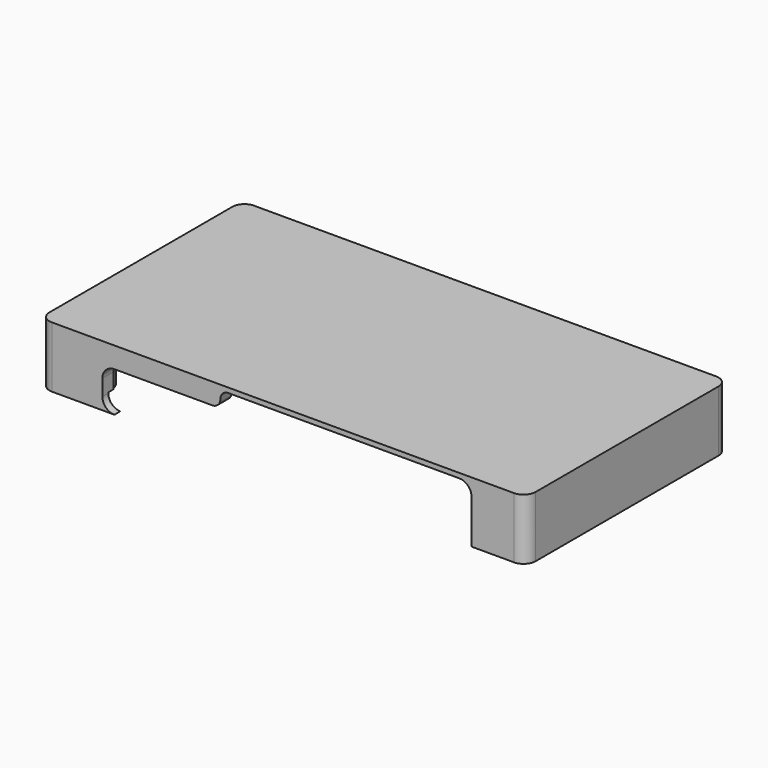
from build123d import *

# Parameters (mm, degrees)
PAD006_DEPTH    = 3.2
SKETCH009_W     = 114.2
SKETCH009_H     = 56
PAD007_DEPTH    = 10
PAD008_DEPTH    = 2
POCKET002_DEPTH = 5
POCKET003_DEPTH = 5
POCKET004_DEPTH = 3.5
SKETCH014_R     = 1.5
PAD009_DEPTH    = 10
SKETCH015_R     = 3.5
SKETCH015_R_2   = 1.7
PAD010_DEPTH    = 3.1


with BuildPart() as part:
    # Sketch008 → Pad006 (new body)
    with BuildSketch(Plane.XY):
        with BuildLine():
            Line((56.86, 33.5), (-58.34, 33.5))
            ThreePointArc((-58.34, 33.5), (-60.46132, 32.62132), (-61.34, 30.5))
            Line((-61.34, 30.5), (-61.34, -26.5))
            ThreePointArc((-61.34, -26.5), (-60.46132, -28.62132), (-58.34, -29.5))
            Line((-58.34, -29.5), (56.86, -29.5))
            ThreePointArc((56.86, -29.5), (58.98132, -28.62132), (59.86, -26.5))
            Line((59.86, -26.5), (59.86, 30.5))
            ThreePointArc((59.86, 30.5), (58.98132, 32.62132), (56.86, 33.5))
        make_face()
        with BuildLine():
            Line((56.26, 31.65), (-57.74, 31.65))
            ThreePointArc((-57.74, 31.65), (-58.977437, 31.137437), (-59.49, 29.9))
            Line((-59.49, 29.9), (-59.49, -25.9))
            ThreePointArc((-59.49, -25.9), (-58.977437, -27.137437), (-57.74, -27.65))
            Line((-57.74, -27.65), (56.26, -27.65))
            ThreePointArc((56.26, -27.65), (57.497437, -27.137437), (58.01, -25.9))
            Line((58.01, -25.9), (58.01, 29.9))
            ThreePointArc((58.01, 29.9), (57.497437, 31.137437), (56.26, 31.65))
        make_face(mode=Mode.SUBTRACT)
    extrude(amount=PAD006_DEPTH)

    # Sketch009 (on Face18 of Pad006) → Pad007 (join)
    with BuildSketch(Plane.XY.offset(3.2)):
        with BuildLine():
            Line((-61.34, 30.5), (-61.34, -26.5))
            ThreePointArc((-61.34, -26.5), (-60.46132, -28.62132), (-58.34, -29.5))
            Line((-58.34, -29.5), (56.86, -29.5))
            ThreePointArc((56.86, -29.5), (58.98132, -28.62132), (59.86, -26.5))
            Line((59.86, -26.5), (59.86, 30.5))
            ThreePointArc((59.86, 30.5), (58.98132, 32.62132), (56.86, 33.5))
            Line((56.86, 33.5), (-58.34, 33.5))
            ThreePointArc((-58.34, 33.5), (-60.46132, 32.62132), (-61.34, 30.5))
        make_face()
        with Locations((-0.74, 2)):
            Rectangle(SKETCH009_W, SKETCH009_H, mode=Mode.SUBTRACT)
    extrude(amount=PAD007_DEPTH)

    # Sketch010 (on Face12 of Pad007) → Pad008 (join)
    with BuildSketch(Plane.XY.offset(13.2)):
        with BuildLine():
            Line((-61.34, 30.5), (-61.34, -26.5))
            ThreePointArc((-61.34, -26.5), (-60.46132, -28.62132), (-58.34, -29.5))
            Line((-58.34, -29.5), (56.86, -29.5))
            ThreePointArc((56.86, -29.5), (58.98132, -28.62132), (59.86, -26.5))
            Line((59.86, -26.5), (59.86, 30.5))
            ThreePointArc((59.86, 30.5), (58.98132, 32.62132), (56.86, 33.5))
            Line((56.86, 33.5), (-58.34, 33.5))
            ThreePointArc((-58.34, 33.5), (-60.46132, 32.62132), (-61.34, 30.5))
        make_face()
    extrude(amount=PAD008_DEPTH)

    # Sketch011 (on Face18 of Pad008) → Pocket002 (cut)
    with BuildSketch(Plane(origin=(-61.34, 0, 0), x_dir=(0, -1, 0), z_dir=(-1, 0, 0))):
        with BuildLine():
            Line((-2.9, 0), (12.6, 0))
            Line((12.6, 0), (12.6, 4))
            ThreePointArc((12.6, 4), (12.38033, 4.53033), (11.85, 4.75))
            Line((11.85, 4.75), (-2.15, 4.75))
            ThreePointArc((-2.15, 4.75), (-2.68033, 4.53033), (-2.9, 4))
            Line((-2.9, 4), (-2.9, 0))
        make_face()
    extrude(amount=-POCKET002_DEPTH, mode=Mode.SUBTRACT)

    # Sketch012 (on Face20 of Pocket002) → Pocket003 (cut)
    with BuildSketch(Plane(origin=(0, 33.5, 0), x_dir=(-1, 0, 0), z_dir=(0, 1, 0))):
        with BuildLine():
            Line((10.74, 0), (38.74, 0))
            Line((38.74, 0), (38.74, 1.25))
            ThreePointArc((38.74, 1.25), (38.52033, 1.78033), (37.99, 2))
            Line((37.99, 2), (11.49, 2))
            ThreePointArc((11.49, 2), (10.95967, 1.78033), (10.74, 1.25))
            Line((10.74, 1.25), (10.74, 0))
        make_face()
    extrude(amount=-POCKET003_DEPTH, mode=Mode.SUBTRACT)

    # Sketch013 (on Face4 of Pocket003) → Pocket004 (cut)
    with BuildSketch(Plane.XZ.offset(29.5)):
        with BuildLine():
            ThreePointArc((-45.74, 3), (-44.86132, 0.87868), (-42.74, 0))
            Line((-16.34, 0), (-42.74, 0))
            ThreePointArc((-16.34, 0), (-15.754214, -1.414214), (-14.34, -2))
            Line((25.66, -2), (-14.34, -2))
            ThreePointArc((25.66, -2), (27.074214, -1.414214), (27.66, 0))
            Line((27.66, 0), (46.26, 0))
            Line((46.26, 0), (46.26, 3))
            Line((46.26, 11), (46.26, 3))
            ThreePointArc((46.26, 11), (45.38132, 13.12132), (43.26, 14))
            Line((43.26, 14), (-14.34, 14))
            ThreePointArc((-14.34, 14), (-15.754214, 13.414214), (-16.34, 12))
            ThreePointArc((-18.34, 10), (-16.925786, 10.585786), (-16.34, 12))
            Line((-42.74, 10), (-18.34, 10))
            ThreePointArc((-42.74, 10), (-44.86132, 9.12132), (-45.74, 7))
            Line((-45.74, 3), (-45.74, 7))
        make_face()
    extrude(amount=-POCKET004_DEPTH, mode=Mode.SUBTRACT)

    # Sketch014 (on Face43 of Pocket004) → Pad009 (join)
    with BuildSketch(Plane(origin=(0, 0, 13.2), x_dir=(1, 0, 0), z_dir=(0, 0, -1))):
        with BuildLine():
            ThreePointArc((-49.74, -22.5), (-50.765126, -20.025126), (-53.24, -19))
            Line((-57.84, -19), (-53.24, -19))
            Line((-57.84, -30), (-57.84, -19))
            Line((-57.84, -30), (-49.74, -30))
            Line((-49.74, -30), (-49.74, -22.5))
        make_face()
        with Locations((-53.24, -22.5)):
            Circle(SKETCH014_R, mode=Mode.SUBTRACT)
        with BuildLine():
            Line((-57.84, 26), (-57.84, 18))
            Line((-57.84, 18), (-53.24, 18))
            ThreePointArc((-53.24, 18), (-50.765126, 19.025126), (-49.74, 21.5))
            Line((-49.74, 21.5), (-49.74, 26))
            Line((-49.74, 26), (-57.84, 26))
        make_face()
        with Locations((-53.24, 21.5)):
            Circle(SKETCH014_R, mode=Mode.SUBTRACT)
        with BuildLine():
            Line((56.36, 26), (46.86, 26))
            Line((46.86, 25), (46.86, 26))
            ThreePointArc((46.86, 25), (43.36, 21.5), (46.86, 18))
            Line((46.86, 18), (56.36, 18))
            Line((56.36, 18), (56.36, 26))
        make_face()
        with Locations((46.86, 21.5)):
            Circle(SKETCH014_R, mode=Mode.SUBTRACT)
        with Locations((51.86, 21.5)):
            Circle(SKETCH014_R, mode=Mode.SUBTRACT)
        with BuildLine():
            Line((56.36, -30), (56.36, -23.4))
            Line((56.36, -23.4), (55.36, -23.4))
            ThreePointArc((55.36, -23.4), (53.440019, -20.276934), (49.786549, -20.580284))
            ThreePointArc((49.786549, -20.580284), (43.780308, -20.837022), (46.86, -26))
            Line((46.86, -26), (46.86, -30))
            Line((46.86, -30), (56.36, -30))
        make_face()
        with Locations((46.86, -22.5)):
            Circle(SKETCH014_R, mode=Mode.SUBTRACT)
        with Locations((51.86, -23.4)):
            Circle(SKETCH014_R, mode=Mode.SUBTRACT)
    extrude(amount=PAD009_DEPTH)

    # Sketch015 (on Face62 of Pad009) → Pad010 (join)
    with BuildSketch(Plane(origin=(0, 0, 3.2), x_dir=(1, 0, 0), z_dir=(0, 0, -1))):
        with Locations((-53.24, -22.5)):
            Circle(SKETCH015_R)
        with Locations((-53.24, -22.5)):
            Circle(SKETCH015_R_2, mode=Mode.SUBTRACT)
        with Locations((-53.24, 21.5)):
            Circle(SKETCH015_R)
        with Locations((-53.24, 21.5)):
            Circle(SKETCH015_R_2, mode=Mode.SUBTRACT)
        with BuildLine():
            ThreePointArc((46.86, 25), (43.36, 21.5), (46.86, 18))
            Line((46.86, 18), (51.86, 18))
            ThreePointArc((51.86, 18), (55.36, 21.5), (51.86, 25))
            Line((46.86, 25), (51.86, 25))
        make_face()
        with Locations((46.86, 21.5)):
            Circle(SKETCH015_R_2, mode=Mode.SUBTRACT)
        with Locations((51.86, 21.5)):
            Circle(SKETCH015_R_2, mode=Mode.SUBTRACT)
        with BuildLine():
            ThreePointArc((49.786549, -20.580284), (43.415358, -21.879965), (48.933451, -25.319716))
            ThreePointArc((48.933451, -25.319716), (55.304642, -24.020035), (49.786549, -20.580284))
        make_face()
        with Locations((51.86, -23.4)):
            Circle(SKETCH015_R_2, mode=Mode.SUBTRACT)
        with Locations((46.86, -22.5)):
            Circle(SKETCH015_R_2, mode=Mode.SUBTRACT)
    extrude(amount=PAD010_DEPTH)


solid = part.part
